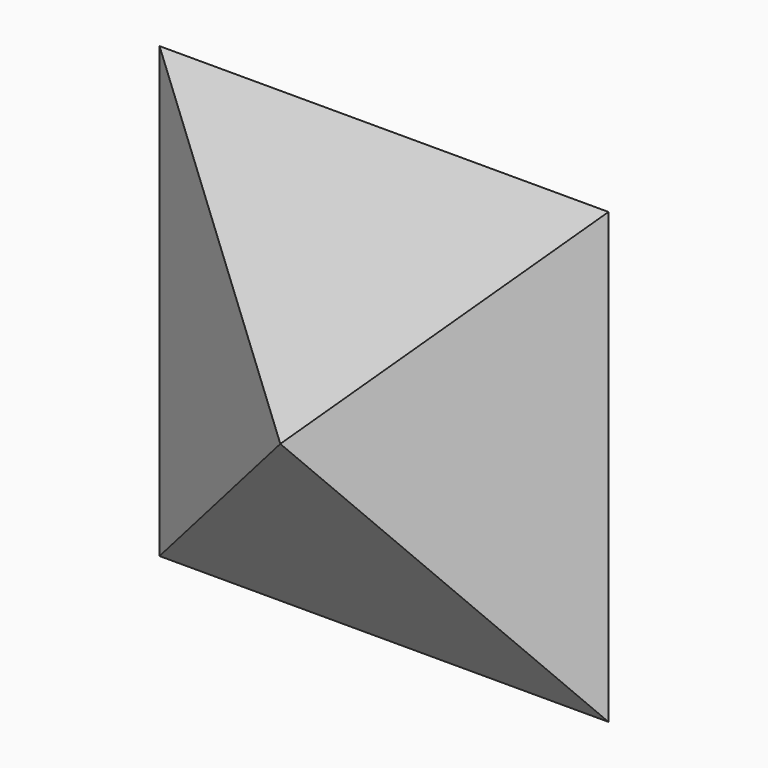
from build123d import *

# Parameters (mm, degrees)
F1_DEPTH = 50
F2_W     = 100
F2_H     = 100
F3_DEPTH = 50


with BuildPart() as f1:
    # F0 (on Top) → F1 (new body, symmetric)
    with BuildSketch(Plane.XY):
        Polygon((-34.641016, 20), (0, 0), (34.641016, 20), align=None)
    extrude(amount=F1_DEPTH, both=True)

    # F2 (on Right) → F3 (cut, symmetric)
    with BuildSketch(Plane.YZ):
        Rectangle(F2_W, F2_H)
        Polygon((20, -34.641016), (0, 0), (20, 34.641016), align=None, mode=Mode.SUBTRACT)
    extrude(amount=F3_DEPTH, both=True, mode=Mode.SUBTRACT)


solid = f1.part
